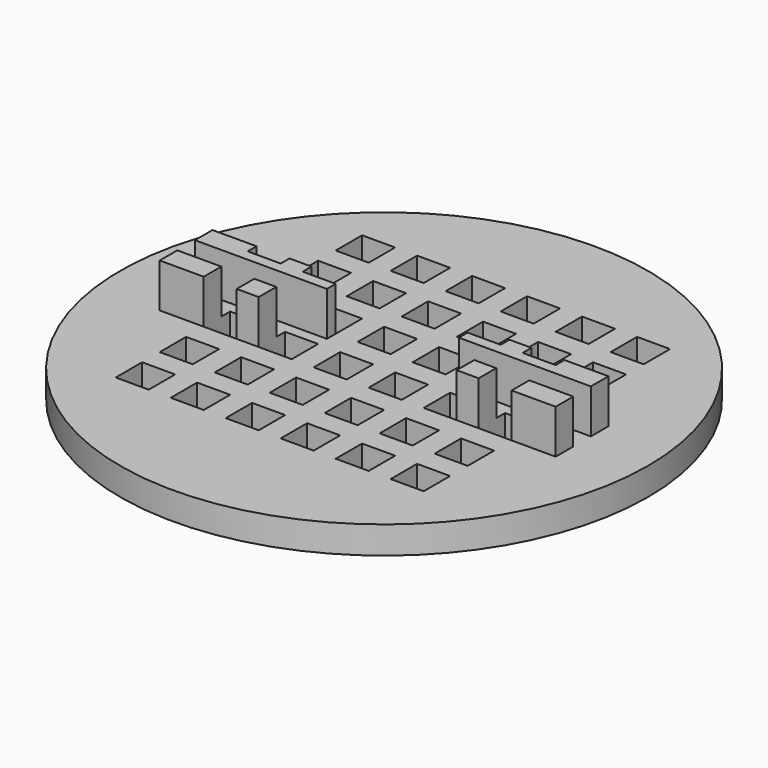
from build123d import *

# Parameters (mm, degrees)
F0_R          = 24
F1_DEPTH      = 2.5
F4_W          = 12
F4_H          = 2
F5_DEPTH      = 4
F6_W          = 3
F6_H          = 3
F7_DEPTH      = 2.5
F7_DEPTH_BACK = 25


with BuildPart() as f1:
    # F0 (on Top) → F1 (new body)
    with BuildSketch(Plane.XY):
        Circle(F0_R)
    extrude(amount=F1_DEPTH)

    # F4 (on face) → F5 (join)
    with BuildSketch(Plane.XY.offset(2.5)):
        with Locations((12, -2)):
            Rectangle(F4_W, F4_H)
        with Locations((12, 2)):
            Rectangle(F4_W, F4_H)
        with Locations((-12, -2)):
            Rectangle(F4_W, F4_H)
        with Locations((-12, 2)):
            Rectangle(F4_W, F4_H)
    extrude(amount=F5_DEPTH)

    # F6 (on face) → F7 (cut, two sides)
    with BuildSketch(Plane.XY.offset(2.5)) as f7_sk:
        with Locations((12.5, -11.5)):
            Rectangle(F6_W, F6_H)
        with Locations((12.5, -6.5)):
            Rectangle(F6_W, F6_H)
        with Locations((12.5, -1.5)):
            Rectangle(F6_W, F6_H)
        with Locations((12.5, 3.5)):
            Rectangle(F6_W, F6_H)
        with Locations((12.5, 8.5)):
            Rectangle(F6_W, F6_H)
        with Locations((12.5, 13.5)):
            Rectangle(F6_W, F6_H)
        with Locations((7.5, -11.5)):
            Rectangle(F6_W, F6_H)
        with Locations((7.5, -6.5)):
            Rectangle(F6_W, F6_H)
        with Locations((7.5, -1.5)):
            Rectangle(F6_W, F6_H)
        with Locations((7.5, 3.5)):
            Rectangle(F6_W, F6_H)
        with Locations((7.5, 8.5)):
            Rectangle(F6_W, F6_H)
        with Locations((7.5, 13.5)):
            Rectangle(F6_W, F6_H)
        with Locations((2.5, -11.5)):
            Rectangle(F6_W, F6_H)
        with Locations((2.5, -6.5)):
            Rectangle(F6_W, F6_H)
        with Locations((2.5, -1.5)):
            Rectangle(F6_W, F6_H)
        with Locations((2.5, 3.5)):
            Rectangle(F6_W, F6_H)
        with Locations((2.5, 8.5)):
            Rectangle(F6_W, F6_H)
        with Locations((2.5, 13.5)):
            Rectangle(F6_W, F6_H)
        with Locations((-2.5, -11.5)):
            Rectangle(F6_W, F6_H)
        with Locations((-2.5, -6.5)):
            Rectangle(F6_W, F6_H)
        with Locations((-2.5, -1.5)):
            Rectangle(F6_W, F6_H)
        with Locations((-2.5, 3.5)):
            Rectangle(F6_W, F6_H)
        with Locations((-2.5, 8.5)):
            Rectangle(F6_W, F6_H)
        with Locations((-2.5, 13.5)):
            Rectangle(F6_W, F6_H)
        with Locations((-7.5, -11.5)):
            Rectangle(F6_W, F6_H)
        with Locations((-7.5, -6.5)):
            Rectangle(F6_W, F6_H)
        with Locations((-7.5, -1.5)):
            Rectangle(F6_W, F6_H)
        with Locations((-7.5, 3.5)):
            Rectangle(F6_W, F6_H)
        with Locations((-7.5, 8.5)):
            Rectangle(F6_W, F6_H)
        with Locations((-7.5, 13.5)):
            Rectangle(F6_W, F6_H)
        with Locations((-12.5, -11.5)):
            Rectangle(F6_W, F6_H)
        with Locations((-12.5, -6.5)):
            Rectangle(F6_W, F6_H)
        with Locations((-12.5, -1.5)):
            Rectangle(F6_W, F6_H)
        with Locations((-12.5, 3.5)):
            Rectangle(F6_W, F6_H)
        with Locations((-12.5, 8.5)):
            Rectangle(F6_W, F6_H)
        with Locations((-12.5, 13.5)):
            Rectangle(F6_W, F6_H)
    extrude(amount=-F7_DEPTH, mode=Mode.SUBTRACT)
    extrude(f7_sk.sketch, amount=F7_DEPTH_BACK, mode=Mode.SUBTRACT)


solid = f1.part
